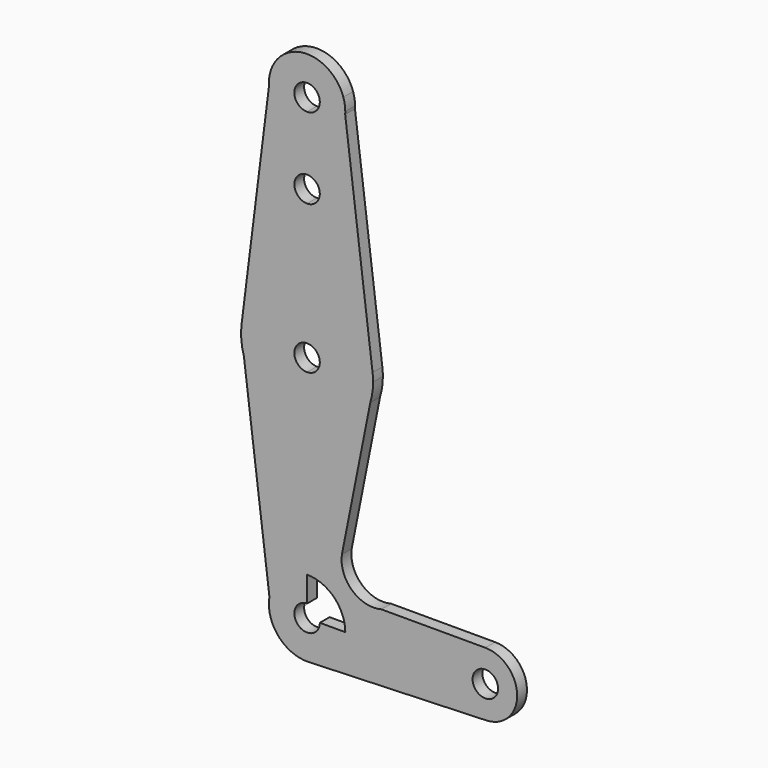
from build123d import *

# Parameters (mm, degrees)
F1_DEPTH = 3.048


with BuildPart() as f1:
    # F0 (on Front) → F1 (new body)
    with BuildSketch(Plane.XZ):
        with BuildLine():
            ThreePointArc((-9.501819222, 113.6358791734), (-6.4961478634, 107.3339618192), (0, 104.775))
            ThreePointArc((0, 104.775), (6.4961478634, 107.3339618192), (9.501819222, 113.6358791734))
            Line((9.501819222, 113.6358791734), (9.0433719558, 117.2904930478))
            ThreePointArc((9.0433719558, 117.2904930478), (0, 123.825), (-9.0433719558, 117.2904930478))
            Line((-9.0433719558, 117.2904930478), (-9.501819222, 113.6358791734))
        make_face()
        with BuildLine():
            ThreePointArc((3.175, 114.3), (2.2450640303, 112.0549359697), (0, 111.125))
            ThreePointArc((0, 111.125), (-2.2450640303, 116.5450640303), (3.175, 114.3))
        make_face(mode=Mode.SUBTRACT)
        with BuildLine():
            ThreePointArc((9.501819222, 113.6358791734), (6.4961478634, 107.3339618192), (0, 104.775))
            Line((0, 104.775), (0, 97.3321891308))
            ThreePointArc((0, 97.3321891308), (2.2450640303, 96.4022531611), (3.175, 94.1571891308))
            ThreePointArc((3.175, 94.1571891308), (2.2450640303, 91.9121251005), (0, 90.9821891308))
            Line((0, 90.9821891308), (0, 73.6086098377))
            ThreePointArc((0, 73.6086098377), (10.8896565423, 69.4910379701), (16.3306216255, 59.1985690409))
            Line((16.3306216255, 59.1985690409), (9.501819222, 113.6358791734))
        make_face()
        with BuildLine():
            Line((0, 97.3321891308), (0, 104.775))
            ThreePointArc((0, 104.775), (-6.4961478634, 107.3339618192), (-9.501819222, 113.6358791734))
            Line((-9.501819222, 113.6358791734), (-16.3306216255, 59.1985690409))
            ThreePointArc((-16.3306216255, 59.1985690409), (-10.8896565423, 69.4910379701), (0, 73.6086098377))
            Line((0, 73.6086098377), (0, 90.9821891308))
            ThreePointArc((0, 90.9821891308), (-3.175, 94.1571891308), (0, 97.3321891308))
        make_face()
        with BuildLine():
            ThreePointArc((-9.0433719558, 117.2904930478), (-9.4509300917, 115.4855570007), (-9.501819222, 113.6358791734))
            Line((-9.501819222, 113.6358791734), (-9.0433719558, 117.2904930478))
        make_face()
        with BuildLine():
            Line((9.0433719558, 117.2904930478), (9.501819222, 113.6358791734))
            ThreePointArc((9.501819222, 113.6358791734), (9.5192030415, 113.9677373701), (9.525, 114.3))
            ThreePointArc((9.525, 114.3), (9.4038221718, 115.8145142985), (9.0433719558, 117.2904930478))
        make_face()
        with BuildLine():
            ThreePointArc((0, 73.6086098377), (-10.8896565423, 69.4910379701), (-16.3306216255, 59.1985690409))
            ThreePointArc((-16.3306216255, 59.1985690409), (-16.4012489667, 55.7770942778), (-15.7627847425, 52.414975718))
            ThreePointArc((-15.7627847425, 52.414975718), (-9.8222685913, 43.9436046739), (0, 40.6913901623))
            Line((0, 40.6913901623), (0, 53.975))
            ThreePointArc((0, 53.975), (-3.175, 57.15), (0, 60.325))
            Line((0, 60.325), (0, 73.6086098377))
        make_face()
        with BuildLine():
            Line((15.7627847425, 52.414975718), (16.3306216255, 59.1985690409))
            ThreePointArc((16.3306216255, 59.1985690409), (10.8896565423, 69.4910379701), (0, 73.6086098377))
            Line((0, 73.6086098377), (0, 60.325))
            ThreePointArc((0, 60.325), (2.2450640303, 59.3950640303), (3.175, 57.15))
            ThreePointArc((3.175, 57.15), (2.2450640303, 54.9049359697), (0, 53.975))
            Line((0, 53.975), (0, 40.6913901623))
            ThreePointArc((0, 40.6913901623), (9.8222685913, 43.9436046739), (15.7627847425, 52.414975718))
        make_face()
        with BuildLine():
            ThreePointArc((16.4586098377, 57.15), (16.4265816214, 58.1762816497), (16.3306216255, 59.1985690409))
            Line((16.3306216255, 59.1985690409), (15.7627847425, 52.414975718))
            ThreePointArc((15.7627847425, 52.414975718), (16.2837244177, 54.7570610374), (16.4586098377, 57.15))
        make_face()
        with BuildLine():
            ThreePointArc((0, 40.6913901623), (-9.8222685913, 43.9436046739), (-15.7627847425, 52.414975718))
            Line((-15.7627847425, 52.414975718), (-9.3889204906, 1.6043057756))
            ThreePointArc((-9.3889204906, 1.6043057756), (-6.1418487643, 7.2803378188), (0, 9.525))
            Line((0, 9.525), (0, 40.6913901623))
        make_face()
        with BuildLine():
            Line((8.6805829027, 16.7754290667), (15.7627847425, 52.414975718))
            ThreePointArc((15.7627847425, 52.414975718), (9.8222685913, 43.9436046739), (0, 40.6913901623))
            Line((0, 40.6913901623), (0, 9.525))
            ThreePointArc((0, 9.525), (6.7351920908, 6.7351920908), (9.525, 0))
            Line((9.525, 0), (36.5125, 0))
            ThreePointArc((36.5125, 0), (38.8373399243, 5.6126600757), (44.45, 7.9375))
            Line((44.45, 7.9375), (18.516198312, 7.9375))
            ThreePointArc((18.516198312, 7.9375), (11.2356576502, 9.7270099964), (8.6805829027, 16.7754290667))
        make_face()
        with BuildLine():
            ThreePointArc((0, 9.525), (-6.1418487643, 7.2803378188), (-9.3889204906, 1.6043057756))
            ThreePointArc((-9.3889204906, 1.6043057756), (-7.1694832544, -6.2708958582), (0.3401784686, -9.518923448))
            ThreePointArc((0.3401784686, -9.518923448), (6.8544082499, -6.6138273748), (9.525, 0))
            Line((9.525, 0), (3.175, 0))
            ThreePointArc((3.175, 0), (-2.2450640303, -2.2450640303), (0, 3.175))
            Line((0, 3.175), (0, 9.525))
        make_face()
        with BuildLine():
            ThreePointArc((9.525, 0), (6.8544082499, -6.6138273748), (0.3401784686, -9.518923448))
            Line((0.3401784686, -9.518923448), (44.7324052746, -7.9324746146))
            ThreePointArc((44.7324052746, -7.9324746146), (38.9380895153, -5.7116327839), (36.5125, 0))
            Line((36.5125, 0), (9.525, 0))
        make_face()
        with BuildLine():
            ThreePointArc((36.5125, 0), (38.9380895153, -5.7116327839), (44.7324052746, -7.9324746146))
            ThreePointArc((44.7324052746, -7.9324746146), (50.1616327839, -5.5119104847), (52.3875, 0))
            ThreePointArc((52.3875, 0), (50.0626600757, 5.6126600757), (44.45, 7.9375))
            ThreePointArc((44.45, 7.9375), (38.8373399243, 5.6126600757), (36.5125, 0))
        make_face()
        with BuildLine():
            ThreePointArc((47.625, 0), (44.45, -3.175), (41.275, 0))
            ThreePointArc((41.275, 0), (44.45, 3.175), (47.625, 0))
        make_face(mode=Mode.SUBTRACT)
    extrude(amount=F1_DEPTH)


solid = f1.part
